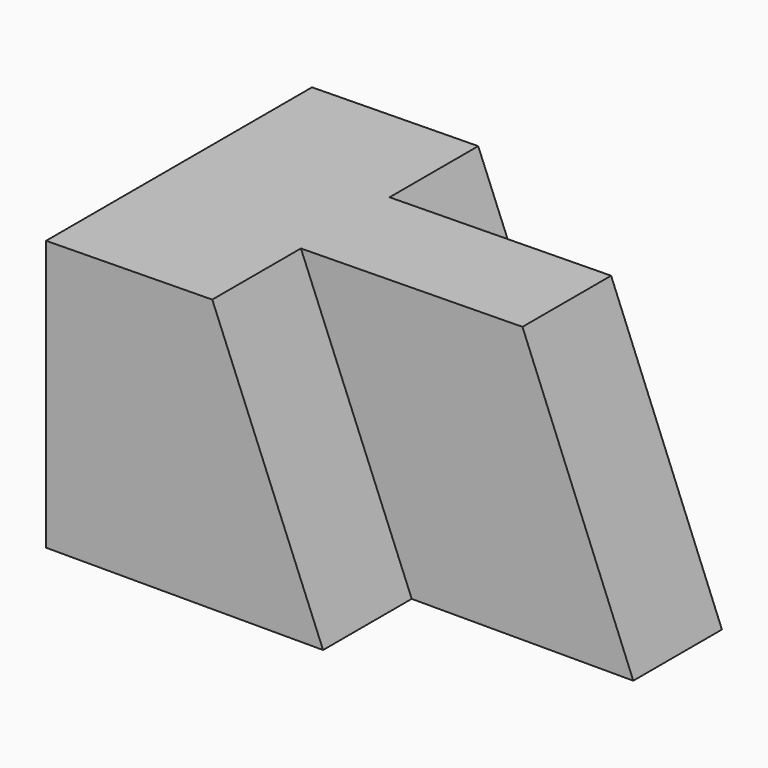
from build123d import *

# Parameters (mm, degrees)
F1_DEPTH = 38.1
F3_DEPTH = 12.7
F5_DEPTH = 12.7
F7_DEPTH = 25.401


with BuildPart() as f1:
    # F0 (on Front) → F1 (new body)
    with BuildSketch(Plane.XZ):
        Polygon((-7.5456544791, 31.75), (-64.6903658043, 30.9725248881), (-64.6903658043, 0), (-7.5456544791, 0), align=None)
    extrude(amount=F1_DEPTH)

    # F2 (on face) → F3 (cut)
    with BuildSketch(Plane.XZ.offset(38.1)):
        Polygon((-7.5456544791, 31.75), (-45.6421286959, 31.2316832588), (-32.9403658043, 0), (-7.5456544791, 0), align=None)
    extrude(amount=-F3_DEPTH, mode=Mode.SUBTRACT)

    # F4 (on face) → F5 (cut)
    with BuildSketch(Plane(origin=(0, 0, 0), x_dir=(-1, 0, 0), z_dir=(0, 1, 0))):
        Polygon((32.9403658043, 0), (45.6403658043, 31.2317072435), (7.5456544791, 31.75), (7.5456544791, 0), align=None)
    extrude(amount=-F5_DEPTH, mode=Mode.SUBTRACT)

    # F6 (on face) → F7 (cut, through all)
    with BuildSketch(Plane(origin=(0, -12.7, 0), x_dir=(-1, 0, 0), z_dir=(0, 1, 0))):
        Polygon((7.5456544791, 0), (20.2456544791, 31.5772117631), (7.5456544791, 31.75), align=None)
    extrude(amount=-F7_DEPTH, mode=Mode.SUBTRACT)


solid = f1.part
